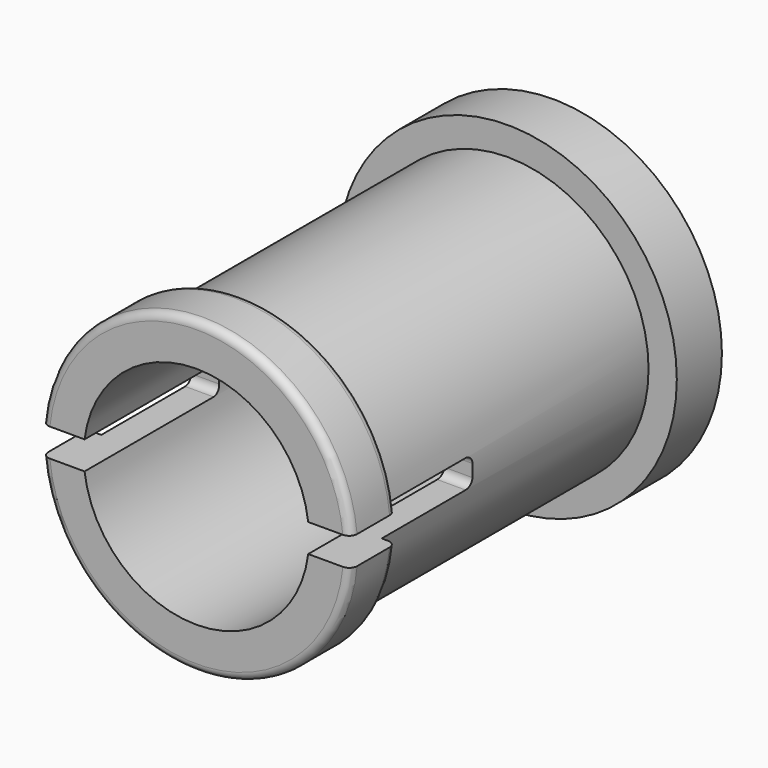
from build123d import *

# Parameters (mm, degrees)
F0_R     = 3
F1_DEPTH = 0.5
F2_R     = 2.499
F2_R_2   = 1.999
F3_DEPTH = 5.9
F4_R     = 2.75
F4_R_2   = 1.999
F5_DEPTH = 1
F7_DEPTH = 3
F8_R     = 0.14


with BuildPart() as f1:
    # F0 (on Front) → F1 (new body, symmetric)
    with BuildSketch(Plane.XZ):
        Circle(F0_R)
    extrude(amount=F1_DEPTH, both=True)

    # F2 (on face) → F3 (join)
    with BuildSketch(Plane.XZ.offset(0.5)):
        Circle(F2_R)
        Circle(F2_R_2, mode=Mode.SUBTRACT)
    extrude(amount=F3_DEPTH)

    # F4 (on face) → F5 (join)
    with BuildSketch(Plane.XZ.offset(6.4)):
        Circle(F4_R)
        Circle(F4_R_2, mode=Mode.SUBTRACT)
    extrude(amount=F5_DEPTH)

    # F6 (on face) → F7 (cut)
    with BuildSketch(Plane.XZ.offset(7.4)):
        with BuildLine():
            ThreePointArc((2.7386127875, -0.25), (2.75, 0), (2.7386127875, 0.25))
            Line((2.7386127875, 0.25), (1.983305574, 0.25))
            ThreePointArc((1.983305574, 0.25), (1.999, 0), (1.983305574, -0.25))
            Line((1.983305574, -0.25), (2.7386127875, -0.25))
        make_face()
        with BuildLine():
            Line((-2.7386127875, -0.25), (-1.983305574, -0.25))
            ThreePointArc((-1.983305574, -0.25), (-1.999, 0), (-1.983305574, 0.25))
            Line((-1.983305574, 0.25), (-2.7386127875, 0.25))
            ThreePointArc((-2.7386127875, 0.25), (-2.75, 0), (-2.7386127875, -0.25))
        make_face()
    extrude(amount=-F7_DEPTH, mode=Mode.SUBTRACT)

    # F8
    f8_edges = [f1.edges().sort_by_distance(p)[0] for p in [
        (-2.234885, -4.4, -0.25),
        (0, -6.4, 2.75),
        (0, -7.4, 2.75),
        (0, -7.4, -2.75),
        (0, -6.4, -2.75),
        (2.234885, -4.4, -0.25),
        (2.234885, -4.4, 0.25),
        (-2.234885, -4.4, 0.25),
    ]]
    fillet(f8_edges, radius=F8_R)


solid = f1.part
